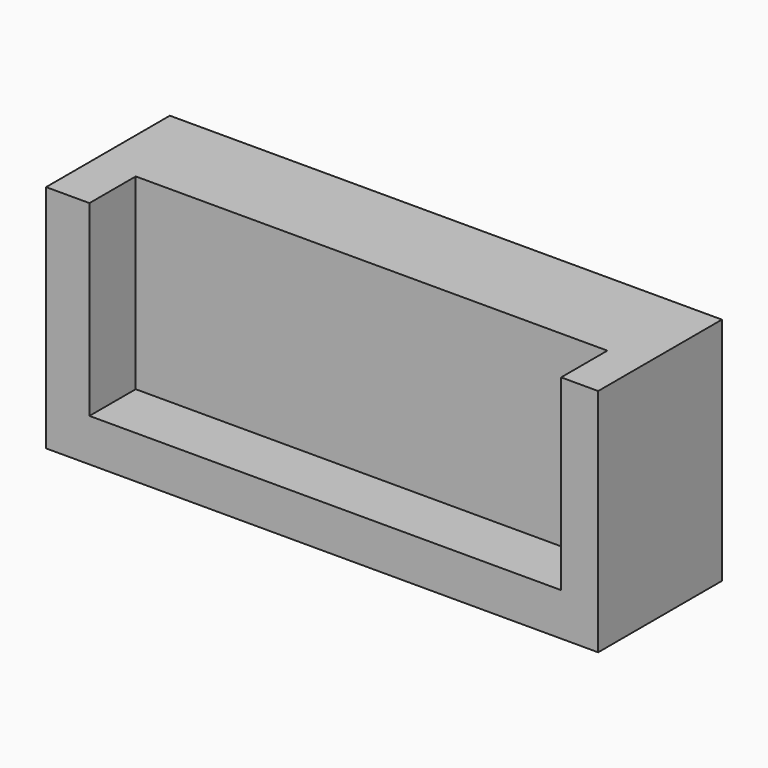
from build123d import *

# Parameters (mm, degrees)
F0_W     = 2280
F0_H     = 950
F1_DEPTH = 400
F2_W     = 179.1080534458
F2_H     = 773.6296027899
F2_H_2   = 176.3703972101
F2_W_2   = 1947.9051530361
F2_W_3   = 152.9867935181
F3_DEPTH = 238.83933


with BuildPart() as f1:
    # F0 (on Front) → F1 (new body)
    with BuildSketch(Plane.XZ):
        with Locations((1140, 475)):
            Rectangle(F0_W, F0_H)
    extrude(amount=F1_DEPTH)

    # F2 (on face) → F3 (join)
    with BuildSketch(Plane.XZ.offset(400)):
        with Locations((89.5540267229, 563.1851986051)):
            Rectangle(F2_W, F2_H)
        with Locations((89.5540267229, 88.1851986051)):
            Rectangle(F2_W, F2_H_2)
        with Locations((1153.0606299639, 88.1851986051)):
            Rectangle(F2_W_2, F2_H_2)
        with Locations((2203.506603241, 88.1851986051)):
            Rectangle(F2_W_3, F2_H_2)
        with Locations((2203.506603241, 563.1851986051)):
            Rectangle(F2_W_3, F2_H)
    extrude(amount=F3_DEPTH)


solid = f1.part
